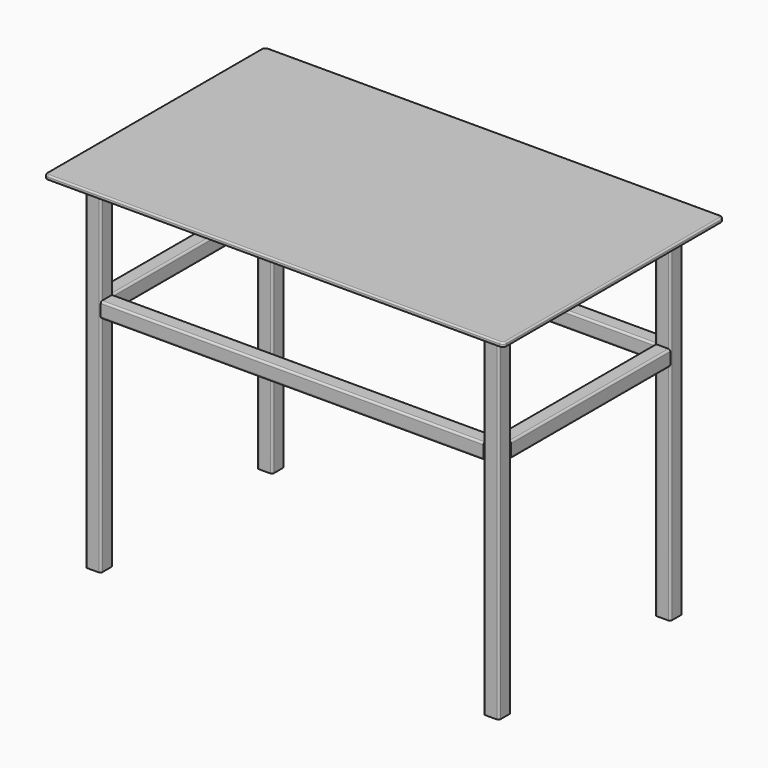
from build123d import *

# Parameters (mm, degrees)
F0_W      = 1524
F0_H      = 914.4
F0_W_2    = 50.8
F0_H_2    = 50.8
F1_DEPTH  = 12.7
F2_DEPTH  = 1143
F3_R      = 12.7
F4_R      = 5.08
F5_R      = 6.35
F6_W      = 1270
F6_H      = 50.8
F7_DEPTH  = 50.8
F8_R      = 6.35
F13_ANGLE = 90
F15_W     = 660.4
F15_H     = 50.8
F16_DEPTH = 50.8
F17_R     = 6.35


with BuildPart() as f1:
    # F0 (on Top) → F1 (new body)
    with BuildSketch(Plane.XY):
        Rectangle(F0_W, F0_H)
        with Locations((-660.4, -355.6)):
            Rectangle(F0_W_2, F0_H_2, mode=Mode.SUBTRACT)
        with Locations((660.4, -355.6)):
            Rectangle(F0_W_2, F0_H_2, mode=Mode.SUBTRACT)
        with Locations((-660.4, 355.6)):
            Rectangle(F0_W_2, F0_H_2, mode=Mode.SUBTRACT)
        with Locations((660.4, 355.6)):
            Rectangle(F0_W_2, F0_H_2, mode=Mode.SUBTRACT)
        with Locations((-660.4, 355.6)):
            Rectangle(F0_W_2, F0_H_2)
        with Locations((-660.4, -355.6)):
            Rectangle(F0_W_2, F0_H_2)
        with Locations((660.4, -355.6)):
            Rectangle(F0_W_2, F0_H_2)
        with Locations((660.4, 355.6)):
            Rectangle(F0_W_2, F0_H_2)
    extrude(amount=F1_DEPTH)

    # F0 (on Top) → F2 (join)
    with BuildSketch(Plane.XY):
        with Locations((-660.4, 355.6)):
            Rectangle(F0_W_2, F0_H_2)
        with Locations((-660.4, -355.6)):
            Rectangle(F0_W_2, F0_H_2)
        with Locations((660.4, -355.6)):
            Rectangle(F0_W_2, F0_H_2)
        with Locations((660.4, 355.6)):
            Rectangle(F0_W_2, F0_H_2)
    extrude(amount=-F2_DEPTH)

    # F3
    f3_edges = [f1.edges().sort_by_distance(p)[0] for p in [
        (-762, 457.2, 6.35),
        (-762, -457.2, 6.35),
        (762, 457.2, 6.35),
        (762, -457.2, 6.35),
    ]]
    fillet(f3_edges, radius=F3_R)

    # F4
    f4_edges = [f1.edges().sort_by_distance(p)[0] for p in [
        (762, 0, 12.7),
        (0, 457.2, 12.7),
        (-762, 0, 12.7),
        (-758.280256, 453.480256, 12.7),
        (-758.280256, -453.480256, 12.7),
        (0, -457.2, 12.7),
        (758.280256, 453.480256, 12.7),
        (758.280256, -453.480256, 12.7),
    ]]
    fillet(f4_edges, radius=F4_R)

    # F5
    f5_edges = [f1.edges().sort_by_distance(p)[0] for p in [
        (-685.8, -381, -571.5),
        (-635, -381, -571.5),
        (-685.8, -330.2, -571.5),
        (-635, 330.2, -571.5),
        (-685.8, 330.2, -571.5),
        (-685.8, 381, -571.5),
        (635, -381, -571.5),
        (685.8, -381, -571.5),
        (635, -330.2, -571.5),
        (635, 330.2, -571.5),
        (685.8, 330.2, -571.5),
        (635, 381, -571.5),
        (685.8, -330.2, -571.5),
        (685.8, 381, -571.5),
        (-635, 381, -571.5),
        (-635, -330.2, -571.5),
    ]]
    fillet(f5_edges, radius=F5_R)


with BuildPart() as f7:
    # F6 (on face) → F7 (new body)
    with BuildSketch(Plane(origin=(0, 381, 0), x_dir=(-1, 0, 0), z_dir=(0, 1, 0))):
        with Locations((0, -374.7079670429)):
            Rectangle(F6_W, F6_H)
    extrude(amount=-F7_DEPTH)

    # F8
    f8_edges = [f7.edges().sort_by_distance(p)[0] for p in [
        (0, 381, -349.307967),
        (0, 381, -400.107967),
        (0, 330.2, -349.307967),
        (0, 330.2, -400.107967),
    ]]
    fillet(f8_edges, radius=F8_R)


with BuildPart() as f9_1:
    # F9: copy of F7
    add(f7.part.moved(Location((0, -711.2, 0))))


with BuildPart() as f10_1:
    # F10: copy of F7
    add(f7.part.moved(Location((0, 0, 347.98))))


with BuildPart() as f11_1:
    # F11: copy of F10_1
    add(f10_1.part.moved(Location((0, -711.2, 0))))


with BuildPart() as f12_1:
    # F12: copy of F7
    add(f7.part.moved(Location((0, 416.56, 0))))


with BuildPart() as f12_1_1:
    # F13: moved
    add(f12_1.part.rotate(Axis((-635, 746.76, -374.7079670429), (0, 0, -1)), F13_ANGLE))


with BuildPart() as f16:
    # F15 (on face) → F16 (new body)
    with BuildSketch(Plane.YZ.offset(685.8)):
        with Locations((0, -374.65)):
            Rectangle(F15_W, F15_H)
    extrude(amount=-F16_DEPTH)

    # F17
    f17_edges = [f16.edges().sort_by_distance(p)[0] for p in [
        (685.8, 0, -349.25),
        (685.8, 0, -400.05),
        (635, 0, -349.25),
        (635, 0, -400.05),
    ]]
    fillet(f17_edges, radius=F17_R)


with BuildPart() as f18_1:
    # F18: copy of F16
    add(f16.part.moved(Location((0, 0, 349.25))))


with BuildPart() as f19_1:
    # F19: copy of F16
    add(f16.part.moved(Location((-1320.8, 0, 0))))


with BuildPart() as f20_1:
    # F20: copy of F18_1
    add(f18_1.part.moved(Location((-1320.8, 0, 0))))


solid = Compound([f1.part, f7.part, f9_1.part, f10_1.part, f11_1.part, f16.part, f18_1.part, f19_1.part, f20_1.part])
